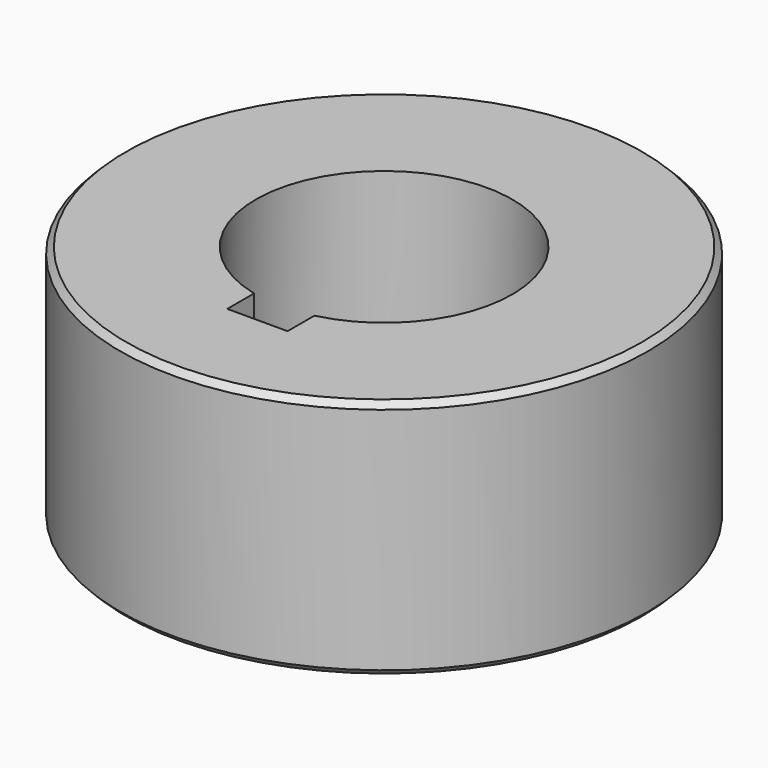
from build123d import *

# Parameters (mm, degrees)
F0_R     = 55.5625
F0_R_2   = 27.0256
F1_DEPTH = 50.8
F3_R     = 31.75
F4_DEPTH = 19.05
F5_W     = 12.7
F5_H     = 33.3375
F6_DEPTH = 50.801
F7_SIZE  = 1.27
F8_D     = 10.71626
F8_DEPTH = 44.45
F8_TIP   = 3.2194893086


with BuildPart() as f1:
    # F0 (on Top) → F1 (new body)
    with BuildSketch(Plane.XY):
        Circle(F0_R)
        Circle(F0_R_2, mode=Mode.SUBTRACT)
    extrude(amount=F1_DEPTH)

    # F3 (on face) → F4 (cut)
    with BuildSketch(Plane(origin=(0, 0, 0), x_dir=(1, 0, 0), z_dir=(0, 0, -1))):
        Circle(F3_R)
    extrude(amount=-F4_DEPTH, mode=Mode.SUBTRACT)

    # F5 (on face) → F6 (cut, through all)
    with BuildSketch(Plane(origin=(0, 0, 0), x_dir=(1, 0, 0), z_dir=(0, 0, -1))):
        with Locations((0, 16.66875)):
            Rectangle(F5_W, F5_H)
    extrude(amount=-F6_DEPTH, mode=Mode.SUBTRACT)

    # F7
    f7_edges = [f1.edges().sort_by_distance(p)[0] for p in [
        (-55.5625, 0, 50.8),
        (-55.5625, 0, 0),
    ]]
    chamfer(f7_edges, length=F7_SIZE)

    # F8
    with Locations(Plane(origin=(0, 0, 0), x_dir=(1, 0, 0), z_dir=(0, 0, -1))):
        with Locations((-31.4308964237, -31.4308964237), (-31.4308964237, 31.4308964237), (31.4308964237, 31.4308964237), (31.4308964237, -31.4308964237)):
            Hole(F8_D / 2, depth=F8_DEPTH)
            with Locations((0, 0, -(F8_DEPTH + F8_TIP / 2))):  # 118° drill point
                Cone(0, F8_D / 2, F8_TIP, mode=Mode.SUBTRACT)


solid = f1.part
